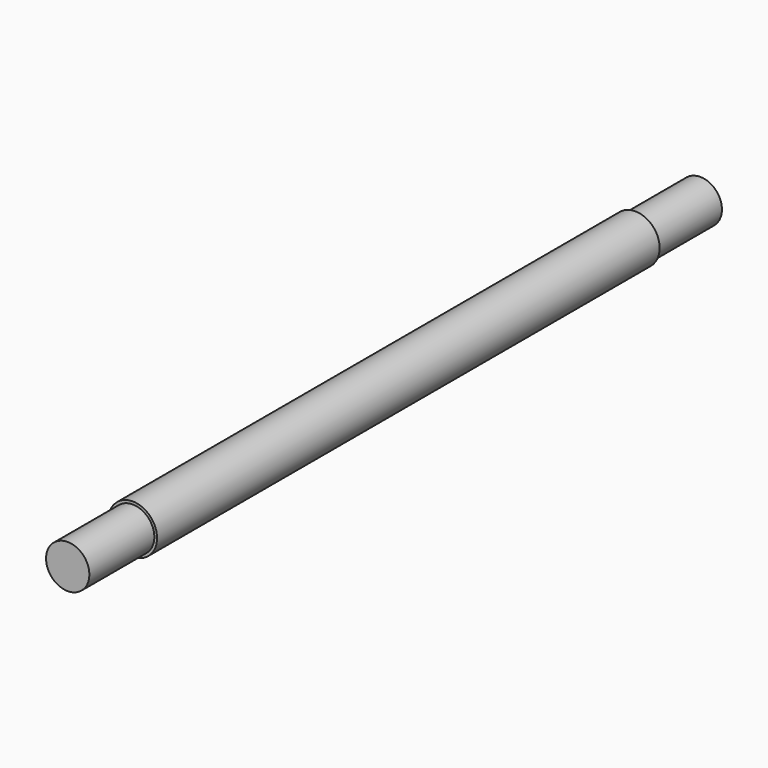
from build123d import *

# Parameters (mm, degrees)
F0_R     = 2
F1_DEPTH = 7.5
F2_R     = 2.25
F2_R_2   = 2
F3_DEPTH = 58
F4_R     = 2
F5_DEPTH = 7.5


with BuildPart() as f1:
    # F0 (on Front) → F1 (new body)
    with BuildSketch(Plane.XZ):
        Circle(F0_R)
    extrude(amount=F1_DEPTH)

    # F2 (on face) → F3 (join)
    with BuildSketch(Plane.XZ.offset(7.5)):
        Circle(F2_R)
        Circle(F2_R_2, mode=Mode.SUBTRACT)
        Circle(F2_R_2)
    extrude(amount=F3_DEPTH)

    # F4 (on face) → F5 (join)
    with BuildSketch(Plane.XZ.offset(65.5)):
        Circle(F4_R)
    extrude(amount=F5_DEPTH)


solid = f1.part
